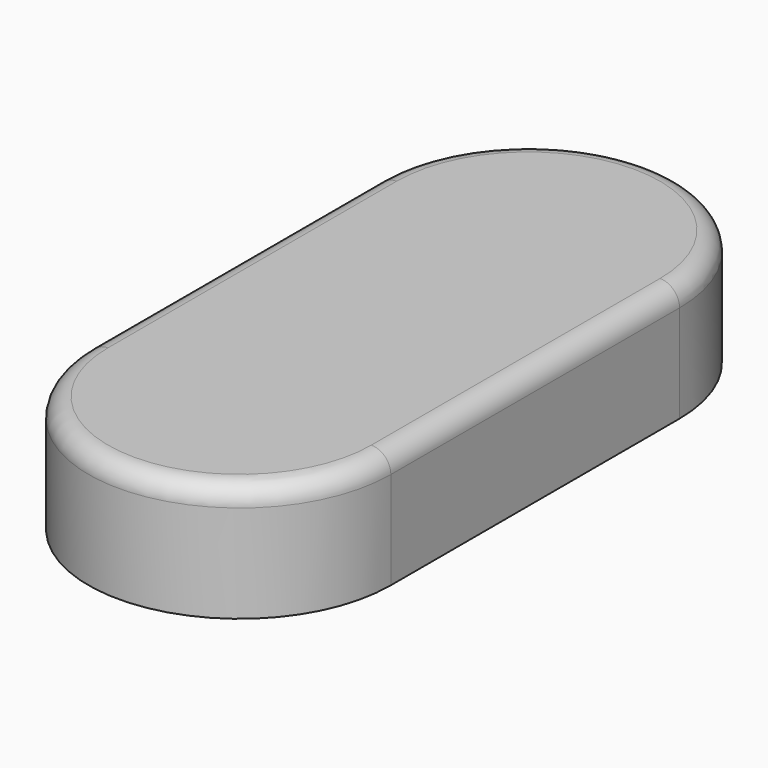
from build123d import *

# Parameters (mm, degrees)
CYLINDER_W        = 15.5
CYLINDER_H        = 12
CYLINDER_ANGLE    = 180
CYLINDER001_W     = 15.5
CYLINDER001_H     = 12
CYLINDER001_ANGLE = 180
BOX_W             = 31
BOX_H             = 37
BOX_DEPTH         = 12
FILLET_R          = 2


with BuildPart() as obj1:
    # Cylinder → Cylinder (revolve)
    with BuildSketch(Plane.XZ.offset(-18.5)):
        with Locations((7.75, 6)):
            Rectangle(CYLINDER_W, CYLINDER_H)
    revolve(axis=Axis((0, 18.5, 0), (0, 0, 1)), revolution_arc=CYLINDER_ANGLE)


with BuildPart() as obj2:
    # Cylinder001 → Cylinder001 (revolve)
    with BuildSketch(Plane(origin=(0, -18.5, 0), x_dir=(-1, 0, 0), z_dir=(0, 1, 0))):
        with Locations((7.75, 6)):
            Rectangle(CYLINDER001_W, CYLINDER001_H)
    revolve(axis=Axis((0, -18.5, 0), (0, 0, 1)), revolution_arc=CYLINDER001_ANGLE)


with BuildPart() as obj3:
    # Box → Box (new body)
    with BuildSketch(Plane(origin=(-15.5, -18.5, 0), x_dir=(1, 0, 0), z_dir=(0, 0, 1))):
        with Locations((15.5, 18.5)):
            Rectangle(BOX_W, BOX_H)
    extrude(amount=BOX_DEPTH)

    # Fusion: union obj1, obj2
    add(obj1.part)
    add(obj2.part)

    # Fillet
    fillet_edges = [obj3.edges().sort_by_distance(p)[0] for p in [
        (-15.5, 0, 12),
    ]]
    fillet(fillet_edges, radius=FILLET_R)


with BuildPart() as obj3_1:
    # Fillet placement: moved
    add(obj3.part.moved(Location((0, 0, 40))))


solid = obj3_1.part
